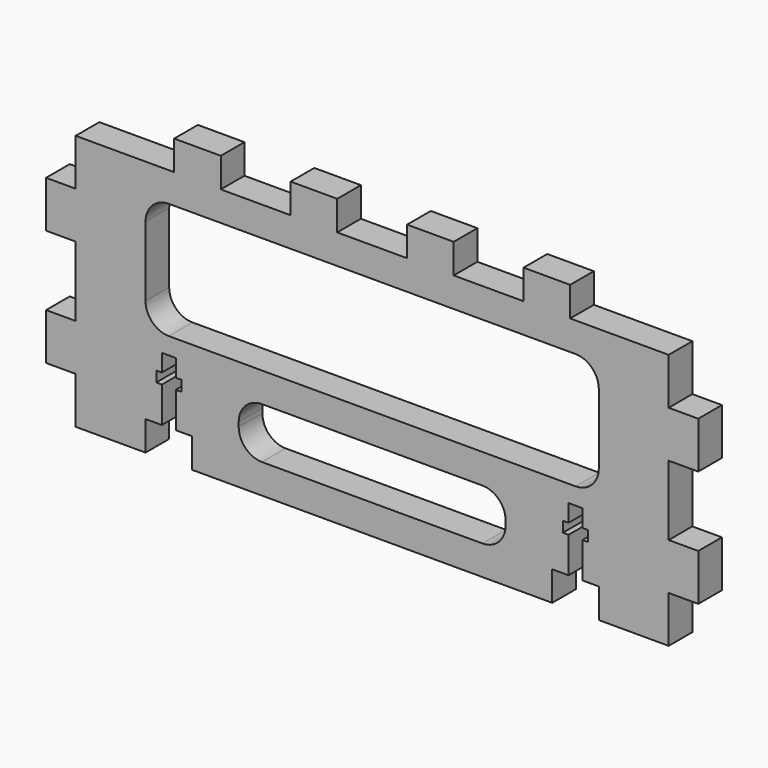
from build123d import *

# Parameters (mm, degrees)
F1_DEPTH = 6.35


with BuildPart() as f1:
    # F0 (on Front) → F1 (new body)
    with BuildSketch(Plane.XZ):
        Polygon((0, 10), (0, 0), (15, 0), (15, 6.35), (18.5, 6.35), (18.5, 14), (17.3, 14), (17.3, 16.27), (18.5, 16.27), (18.5, 20), (21.5, 20), (21.5, 16.27), (22.7, 16.27), (22.7, 14), (21.5, 14), (21.5, 6.35), (25, 6.35), (25, 0), (102.3, 0), (102.3, 6.35), (105.8, 6.35), (105.8, 14), (104.6, 14), (104.6, 16.27), (105.8, 16.27), (105.8, 20), (108.8, 20), (108.8, 16.27), (110, 16.27), (110, 14), (108.8, 14), (108.8, 6.35), (112.3, 6.35), (112.3, 0), (127.3, 0), (127.3, 10), (133.65, 10), (133.65, 20), (127.3, 20), (127.3, 35), (133.65, 35), (133.65, 45), (127.3, 45), (127.3, 55), (106.15, 55), (106.15, 61.35), (96.15, 61.35), (96.15, 55), (81.15, 55), (81.15, 61.35), (71.15, 61.35), (71.15, 55), (56.15, 55), (56.15, 61.35), (46.15, 61.35), (46.15, 55), (31.15, 55), (31.15, 61.35), (21.15, 61.35), (21.15, 55), (0, 55), (0, 45), (-6.35, 45), (-6.35, 35), (0, 35), (0, 20), (-6.35, 20), (-6.35, 10), align=None)
        with BuildLine():
            ThreePointArc((35, 12.3), (36.464466, 15.835534), (40, 17.3))
            Line((40, 17.3), (87.3, 17.3))
            ThreePointArc((87.3, 17.3), (90.835534, 15.835534), (92.3, 12.3))
            Line((92.3, 12.3), (92.3, 11.35))
            ThreePointArc((92.3, 11.35), (90.835534, 7.814466), (87.3, 6.35))
            Line((87.3, 6.35), (40, 6.35))
            ThreePointArc((40, 6.35), (36.464466, 7.814466), (35, 11.35))
            Line((35, 11.35), (35, 12.3))
        make_face(mode=Mode.SUBTRACT)
        with BuildLine():
            ThreePointArc((15, 43.65), (16.464466, 47.185534), (20, 48.65))
            Line((20, 48.65), (107.3, 48.65))
            ThreePointArc((107.3, 48.65), (110.835534, 47.185534), (112.3, 43.65))
            Line((112.3, 43.65), (112.3, 28.65))
            ThreePointArc((112.3, 28.65), (110.835534, 25.114466), (107.3, 23.65))
            Line((107.3, 23.65), (20, 23.65))
            ThreePointArc((20, 23.65), (16.464466, 25.114466), (15, 28.65))
            Line((15, 28.65), (15, 43.65))
        make_face(mode=Mode.SUBTRACT)
    extrude(amount=F1_DEPTH)


solid = f1.part
